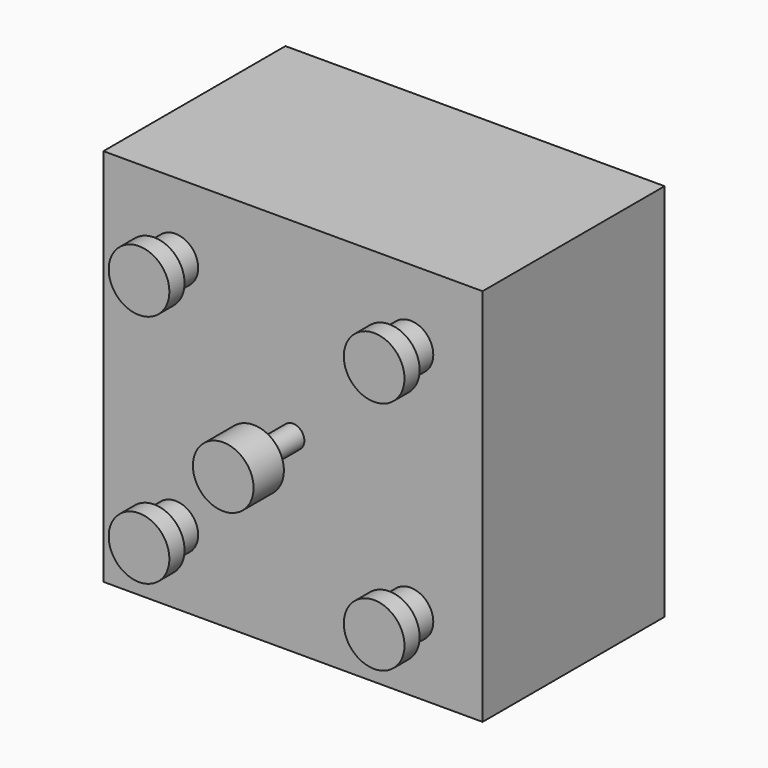
from build123d import *

# Parameters (mm, degrees)
F0_W     = 50
F0_H     = 50
F0_R     = 4
F0_R_2   = 3
F0_R_3   = 1.5
F1_DEPTH = 30
F2_DEPTH = 6
F3_DEPTH = 6
F4_DEPTH = 11.5
F5_DEPTH = 3.5
F6_DEPTH = 6.5


with BuildPart() as f1:
    # F0 (on Front) → F1 (new body)
    with BuildSketch(Plane.XZ):
        Rectangle(F0_W, F0_H)
        with Locations((-15.5, -15.5)):
            Circle(F0_R, mode=Mode.SUBTRACT)
        with Locations((15.5, -15.5)):
            Circle(F0_R, mode=Mode.SUBTRACT)
        with Locations((-15.5, 15.5)):
            Circle(F0_R, mode=Mode.SUBTRACT)
        Circle(F0_R, mode=Mode.SUBTRACT)
        with Locations((15.5, 15.5)):
            Circle(F0_R, mode=Mode.SUBTRACT)
        with Locations((-15.5, 15.5)):
            Circle(F0_R)
        with Locations((-15.5, 15.5)):
            Circle(F0_R_2, mode=Mode.SUBTRACT)
        with Locations((-15.5, -15.5)):
            Circle(F0_R)
        with Locations((-15.5, -15.5)):
            Circle(F0_R_2, mode=Mode.SUBTRACT)
        with Locations((15.5, -15.5)):
            Circle(F0_R)
        with Locations((15.5, -15.5)):
            Circle(F0_R_2, mode=Mode.SUBTRACT)
        with Locations((15.5, 15.5)):
            Circle(F0_R)
        with Locations((15.5, 15.5)):
            Circle(F0_R_2, mode=Mode.SUBTRACT)
        with Locations((15.5, -15.5)):
            Circle(F0_R_2)
        with Locations((-15.5, -15.5)):
            Circle(F0_R_2)
        with Locations((15.5, 15.5)):
            Circle(F0_R_2)
        with Locations((-15.5, 15.5)):
            Circle(F0_R_2)
        Circle(F0_R)
        Circle(F0_R_3, mode=Mode.SUBTRACT)
        Circle(F0_R_3)
    extrude(amount=-F1_DEPTH)

    # F0 (on Front) → F2 (join)
    with BuildSketch(Plane.XZ):
        with Locations((-15.5, 15.5)):
            Circle(F0_R)
        with Locations((-15.5, 15.5)):
            Circle(F0_R_2, mode=Mode.SUBTRACT)
        with Locations((15.5, 15.5)):
            Circle(F0_R)
        with Locations((15.5, 15.5)):
            Circle(F0_R_2, mode=Mode.SUBTRACT)
        with Locations((15.5, -15.5)):
            Circle(F0_R)
        with Locations((15.5, -15.5)):
            Circle(F0_R_2, mode=Mode.SUBTRACT)
        with Locations((-15.5, -15.5)):
            Circle(F0_R)
        with Locations((-15.5, -15.5)):
            Circle(F0_R_2, mode=Mode.SUBTRACT)
    extrude(amount=F2_DEPTH)

    # F0 (on Front) → F3 (join)
    with BuildSketch(Plane.XZ):
        with Locations((-15.5, 15.5)):
            Circle(F0_R_2)
        with Locations((15.5, 15.5)):
            Circle(F0_R_2)
        with Locations((15.5, -15.5)):
            Circle(F0_R_2)
        with Locations((-15.5, -15.5)):
            Circle(F0_R_2)
    extrude(amount=F3_DEPTH)

    # F0 (on Front) → F4 (join)
    with BuildSketch(Plane.XZ):
        Circle(F0_R)
        Circle(F0_R_3, mode=Mode.SUBTRACT)
        Circle(F0_R_3)
    extrude(amount=F4_DEPTH)

    # F0 (on Front) → F5 (cut)
    with BuildSketch(Plane.XZ):
        with Locations((-15.5, -15.5)):
            Circle(F0_R)
        with Locations((-15.5, -15.5)):
            Circle(F0_R_2, mode=Mode.SUBTRACT)
        with Locations((15.5, -15.5)):
            Circle(F0_R)
        with Locations((15.5, -15.5)):
            Circle(F0_R_2, mode=Mode.SUBTRACT)
        with Locations((15.5, 15.5)):
            Circle(F0_R)
        with Locations((15.5, 15.5)):
            Circle(F0_R_2, mode=Mode.SUBTRACT)
        with Locations((-15.5, 15.5)):
            Circle(F0_R)
        with Locations((-15.5, 15.5)):
            Circle(F0_R_2, mode=Mode.SUBTRACT)
    extrude(amount=F5_DEPTH, mode=Mode.SUBTRACT)

    # F0 (on Front) → F6 (cut)
    with BuildSketch(Plane.XZ):
        Circle(F0_R)
        Circle(F0_R_3, mode=Mode.SUBTRACT)
    extrude(amount=F6_DEPTH, mode=Mode.SUBTRACT)


solid = f1.part
